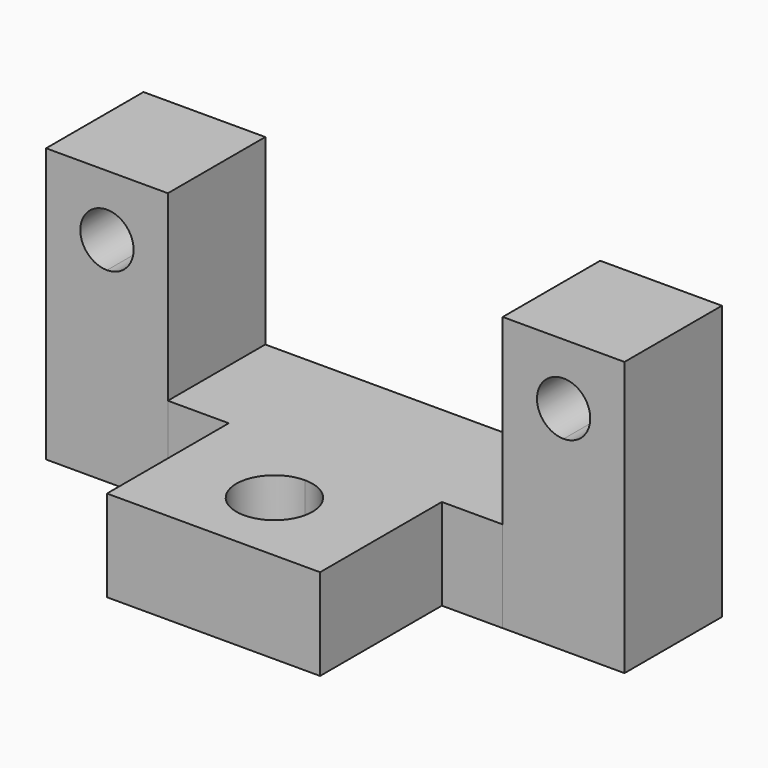
from build123d import *

# Parameters (mm, degrees)
F0_W     = 25.4
F0_H     = 25.4
F1_DEPTH = 57.15
F2_DEPTH = 57.15
F3_DEPTH = 19.05
F5_DEPTH = 49.022
F6_DEPTH = 48.768


with BuildPart() as f1:
    # F0 (on Top) → F1 (new body)
    with BuildSketch(Plane.XY):
        with Locations((-47.625, 28.575)):
            Rectangle(F0_W, F0_H)
    extrude(amount=F1_DEPTH)


with BuildPart() as f2:
    # F0 (on Top) → F2 (new body)
    with BuildSketch(Plane.XY):
        with Locations((47.625, 28.575)):
            Rectangle(F0_W, F0_H)
    extrude(amount=F2_DEPTH)


with BuildPart() as f3:
    # F0 (on Top) → F3 (new body)
    with BuildSketch(Plane.XY):
        with BuildLine():
            ThreePointArc((0, -7.9375), (-7.9375, 0), (0, 7.9375))
            Line((0, 7.9375), (0, 15.875))
            Line((0, 15.875), (0, 41.275))
            Line((0, 41.275), (-34.925, 41.275))
            Line((-34.925, 41.275), (-34.925, 15.875))
            Line((-34.925, 15.875), (-22.225, 15.875))
            Line((-22.225, 15.875), (-22.225, -15.875))
            Line((-22.225, -15.875), (0, -15.875))
            Line((0, -15.875), (0, -7.9375))
        make_face()
        with BuildLine():
            ThreePointArc((0, 7.9375), (5.6126600757, 5.6126600757), (7.9375, 0))
            ThreePointArc((7.9375, 0), (5.6126600757, -5.6126600757), (0, -7.9375))
            Line((0, -7.9375), (0, -15.875))
            Line((0, -15.875), (22.225, -15.875))
            Line((22.225, -15.875), (22.225, 15.875))
            Line((22.225, 15.875), (34.925, 15.875))
            Line((34.925, 15.875), (34.925, 41.275))
            Line((34.925, 41.275), (0, 41.275))
            Line((0, 41.275), (0, 15.875))
            Line((0, 15.875), (0, 7.9375))
        make_face()
    extrude(amount=F3_DEPTH)


with BuildPart() as f5_tool:
    # F4 (on Front) → F5 (new body)
    with BuildSketch(Plane.XZ):
        with BuildLine():
            ThreePointArc((-42.06875, 44.45), (-51.553862053, 48.378862053), (-47.625, 38.89375))
            ThreePointArc((-47.625, 38.89375), (-43.696137947, 40.521137947), (-42.06875, 44.45))
        make_face()
        with BuildLine():
            ThreePointArc((53.18125, 44.45), (43.696137947, 48.378862053), (47.625, 38.89375))
            ThreePointArc((47.625, 38.89375), (51.553862053, 40.521137947), (53.18125, 44.45))
        make_face()
    extrude(amount=-F5_DEPTH)


with BuildPart() as f1_1:
    add(f1.part)

    # F5: cut by f5_tool
    add(f5_tool.part, mode=Mode.SUBTRACT)

    # F4 (on Front) → F6 (cut)
    with BuildSketch(Plane.XZ):
        with BuildLine():
            ThreePointArc((-42.06875, 44.45), (-51.553862053, 48.378862053), (-47.625, 38.89375))
            ThreePointArc((-47.625, 38.89375), (-43.696137947, 40.521137947), (-42.06875, 44.45))
        make_face()
        with BuildLine():
            ThreePointArc((53.18125, 44.45), (43.696137947, 48.378862053), (47.625, 38.89375))
            ThreePointArc((47.625, 38.89375), (51.553862053, 40.521137947), (53.18125, 44.45))
        make_face()
    extrude(amount=-F6_DEPTH, mode=Mode.SUBTRACT)


with BuildPart() as f2_1:
    add(f2.part)

    # F5: cut by f5_tool
    add(f5_tool.part, mode=Mode.SUBTRACT)


solid = Compound([f3.part, f1_1.part, f2_1.part])
